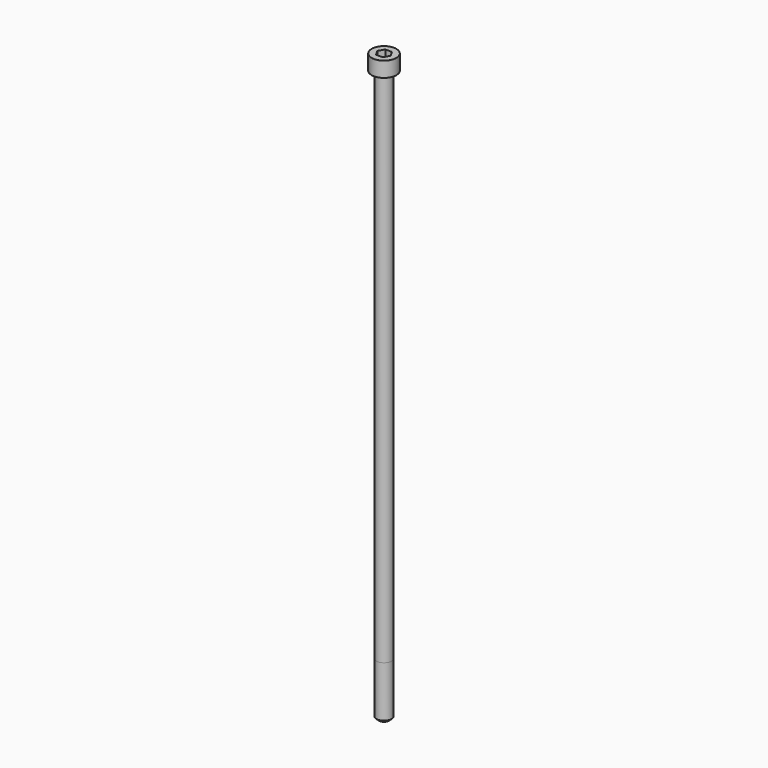
from build123d import *

# Parameters (mm, degrees)
POCKET_DEPTH = 6.06


with BuildPart() as part:
    # Sketch → Revolve (revolve)
    with BuildSketch(Plane.YZ):
        with BuildLine():
            Line((3.999, 0), (6.5, 0))
            Line((6.5, 0), (6.5, 7.97229))
            ThreePointArc((6.5, 7.97229), (6.491884, 7.991884), (6.47229, 8))
            Line((6.47229, 8), (0, 8))
            Line((0, -300), (0, 8))
            Line((2.75, -300), (0, -300))
            Line((4, -298.75), (2.75, -300))
            Line((4, -272), (4, -298.75))
            Line((3.999, 0), (4, -272))
        make_face()
    revolve(axis=Axis((0, 0, 0), (0, 0, 1)))

    # Sketch001 → Pocket (cut)
    with BuildSketch(Plane.XY.offset(8)):
        Polygon((3.498743, 0), (1.749371, 3.03), (-1.749371, 3.03), (-3.498743, 0), (-1.749371, -3.03), (1.749371, -3.03), align=None)
    extrude(amount=-POCKET_DEPTH, mode=Mode.SUBTRACT)


solid = part.part
